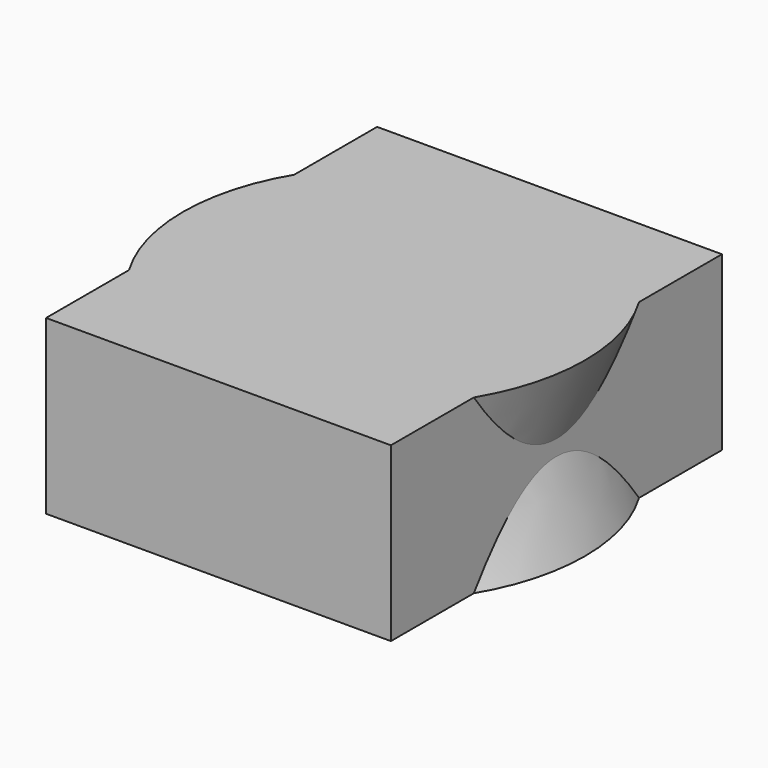
from build123d import *

# Parameters (mm, degrees)
F0_W     = 127
F0_H     = 152.4
F0_R     = 62.4650780237
F1_DEPTH = 31.75
F2_DEPTH = 31.75
F2_TAPER = -20


with BuildPart() as f1:
    # F0 (on Top) → F1 (new body, symmetric)
    with BuildSketch(Plane.XY):
        Rectangle(F0_W, F0_H)
        Circle(F0_R, mode=Mode.SUBTRACT)
    extrude(amount=F1_DEPTH, both=True)

    # F0 (on Top) → F2 (join, symmetric)
    with BuildSketch(Plane.XY):
        Circle(F0_R)
    extrude(amount=F2_DEPTH, both=True, taper=F2_TAPER)


solid = f1.part
